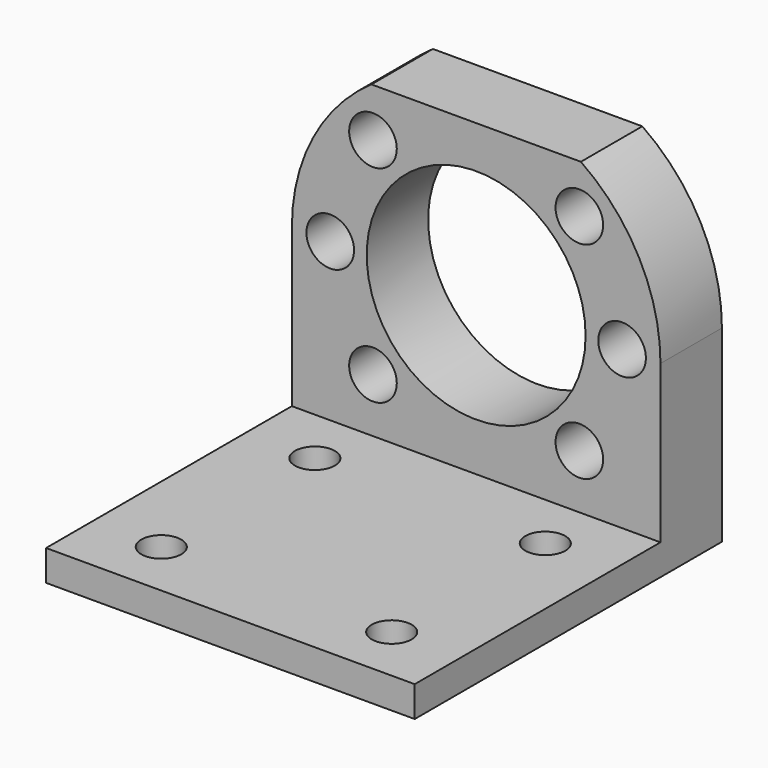
from build123d import *

# Parameters (mm, degrees)
F0_R     = 3.1
F0_R_2   = 14.25
F1_DEPTH = 10
F2_W     = 48
F2_H     = 4
F3_DEPTH = 40
F4_R     = 2.6
F5_DEPTH = 4


with BuildPart() as f1:
    # F0 (on Front) → F1 (new body)
    with BuildSketch(Plane.XZ):
        with BuildLine():
            Line((13.63589, 19.75), (-13.63589, 19.75))
            ThreePointArc((-13.63589, 19.75), (-21.251604, 11.152099), (-24, 0))
            Line((-24, 0), (-24, -24.5))
            Line((-24, -24.5), (24, -24.5))
            Line((24, -24.5), (24, 0))
            ThreePointArc((24, 0), (21.251604, 11.152099), (13.63589, 19.75))
        make_face()
        with Locations((-13.435029, -13.435029)):
            Circle(F0_R, mode=Mode.SUBTRACT)
        with Locations((13.435029, -13.435029)):
            Circle(F0_R, mode=Mode.SUBTRACT)
        with Locations((-19, 0)):
            Circle(F0_R, mode=Mode.SUBTRACT)
        with Locations((-13.435029, 13.435029)):
            Circle(F0_R, mode=Mode.SUBTRACT)
        Circle(F0_R_2, mode=Mode.SUBTRACT)
        with Locations((19, 0)):
            Circle(F0_R, mode=Mode.SUBTRACT)
        with Locations((13.435029, 13.435029)):
            Circle(F0_R, mode=Mode.SUBTRACT)
    extrude(amount=F1_DEPTH)

    # F2 (on face) → F3 (join)
    with BuildSketch(Plane.XZ.offset(10)):
        with Locations((0, -22.5)):
            Rectangle(F2_W, F2_H)
    extrude(amount=F3_DEPTH)

    # F4 (on face) → F5 (cut, through all)
    with BuildSketch(Plane.XY.offset(-20.5)):
        with Locations((-15, -17.5)):
            Circle(F4_R)
        with Locations((-15, -42.5)):
            Circle(F4_R)
        with Locations((15, -42.5)):
            Circle(F4_R)
        with Locations((15, -17.5)):
            Circle(F4_R)
    extrude(amount=-F5_DEPTH, mode=Mode.SUBTRACT)


solid = f1.part
